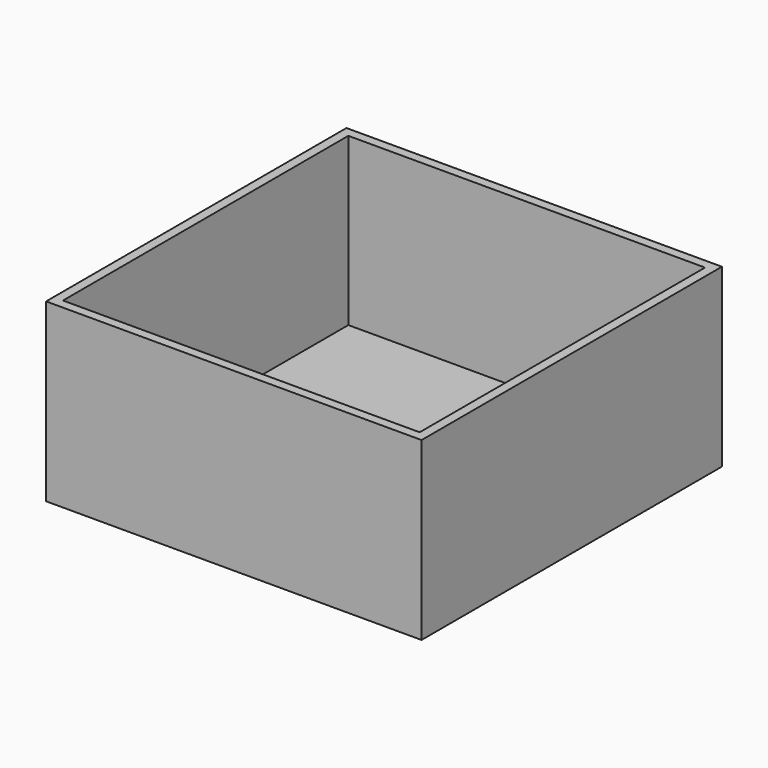
from build123d import *

# Parameters (mm, degrees)
F0_W     = 101.6
F0_H     = 101.6
F0_W_2   = 96.52
F0_H_2   = 96.52
F1_DEPTH = 47.625
F2_DEPTH = 2.54


with BuildPart() as f1:
    # F0 (on Top) → F1 (new body)
    with BuildSketch(Plane.XY):
        Rectangle(F0_W, F0_H)
        Rectangle(F0_W_2, F0_H_2, mode=Mode.SUBTRACT)
    extrude(amount=F1_DEPTH)

    # F0 (on Top) → F2 (join)
    with BuildSketch(Plane.XY):
        Rectangle(F0_W, F0_H)
        Rectangle(F0_W_2, F0_H_2, mode=Mode.SUBTRACT)
        Rectangle(F0_W_2, F0_H_2)
    extrude(amount=F2_DEPTH)


solid = f1.part
